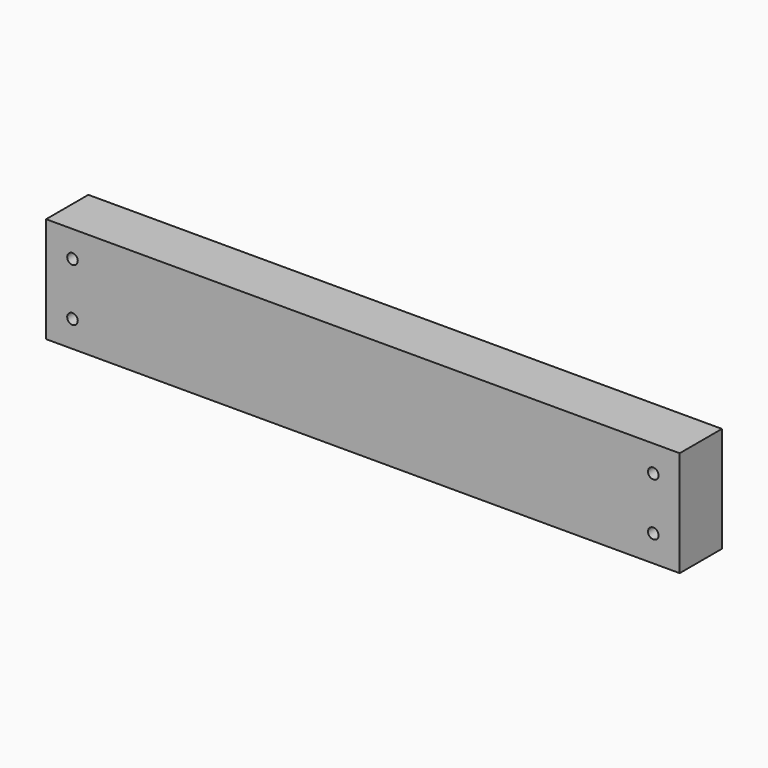
from build123d import *

# Parameters (mm, degrees)
F0_W     = 600
F0_H     = 100
F1_DEPTH = 50
F2_R     = 5
F3_DEPTH = 50.001


with BuildPart() as f1:
    # F0 (on Front) → F1 (new body)
    with BuildSketch(Plane.XZ):
        Rectangle(F0_W, F0_H)
    extrude(amount=F1_DEPTH)

    # F2 (on face) → F3 (cut, through all)
    with BuildSketch(Plane.XZ.offset(50)):
        with Locations((-275, 25)):
            Circle(F2_R)
        with Locations((-275, -25)):
            Circle(F2_R)
        with Locations((275, 25)):
            Circle(F2_R)
        with Locations((275, -25)):
            Circle(F2_R)
    extrude(amount=-F3_DEPTH, mode=Mode.SUBTRACT)


solid = f1.part
